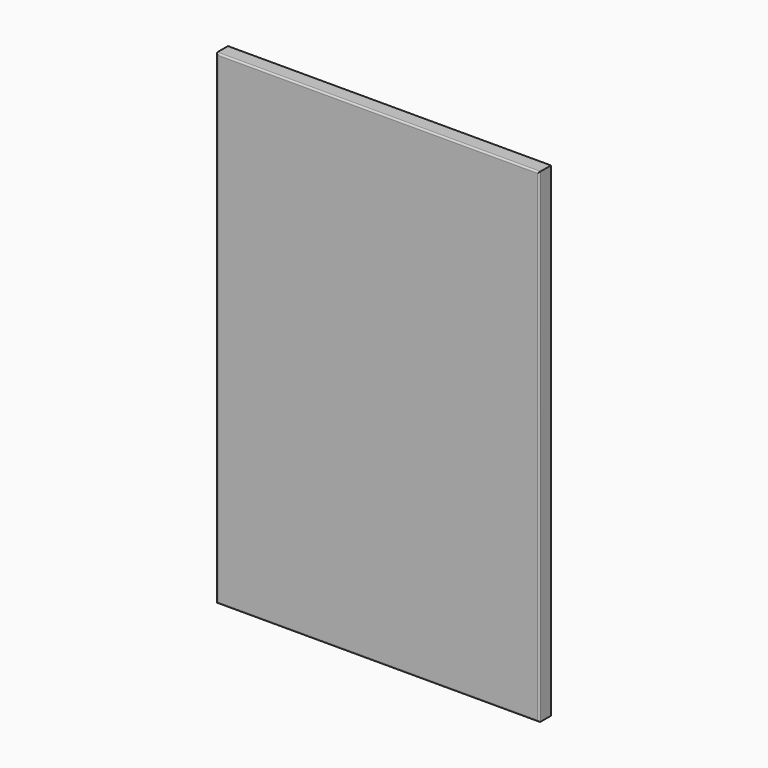
from build123d import *

# Parameters (mm, degrees)
F0_W     = 47.5491583347
F0_H     = 38.0800664425
F1_DEPTH = 18
F2_DEPTH = 396
F3_DEPTH = 594
F4_R     = 2


with BuildPart() as f1:
    # F0 (on Front) → F1 (new body)
    with BuildSketch(Plane.XZ):
        with Locations((23.7745791674, 19.0400332212)):
            Rectangle(F0_W, F0_H)
    extrude(amount=F1_DEPTH)

    # F2 (add): a face of the model
    f2_faces = [f1.faces().sort_by_distance(p)[0] for p in [
        (0, -9, 19.0400332212),
    ]]
    extrude(f2_faces, amount=-F2_DEPTH)

    # F3 (add): a face of the model
    f3_faces = [f1.faces().sort_by_distance(p)[0] for p in [
        (198, -9, 0),
    ]]
    extrude(f3_faces, amount=-F3_DEPTH)

    # F4
    f4_edges = [f1.edges().sort_by_distance(p)[0] for p in [
        (0, -18, 297),
        (198, -18, 0),
        (396, -18, 297),
        (198, -18, 594),
    ]]
    fillet(f4_edges, radius=F4_R)


solid = f1.part
